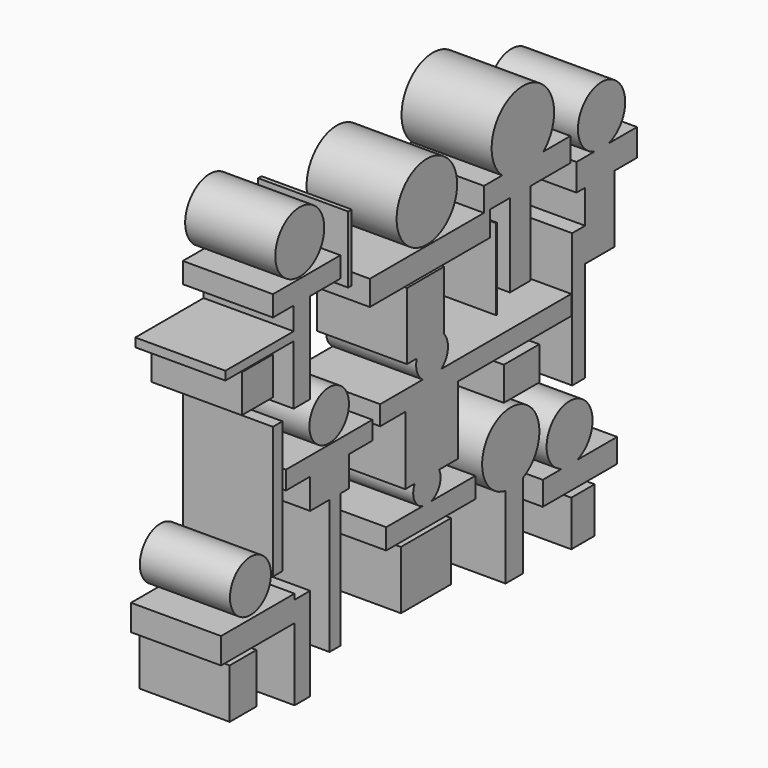
from build123d import *

# Parameters (mm, degrees)
F1_DEPTH = 25.4
F0_W     = 5.7912021875
F0_H     = 0.3047995269
F0_W_2   = 24.0791961551
F0_H_2   = 2.4383999407
F0_W_3   = 7.3152035475
F0_H_3   = 0.3048032522
F0_H_4   = 23.4696008265
F0_W_4   = 8.5344016552
F0_H_5   = 16.4591986686
F0_W_5   = 9.1440007091
F0_W_6   = 9.4488039613
F0_H_6   = 14.0208005905
F0_W_7   = 8.229598403
F0_H_7   = 12.8016006202
F0_W_8   = 10.9728015959
F0_H_8   = 10.6679983437
F0_W_9   = 3.8100006059
F0_H_9   = 37.7952032723
F0_W_10  = 12.4967992306
F0_H_10  = 9.4488007016
F0_R     = 10.6636456841
F0_R_2   = 8.6318203443
F0_R_3   = 6.9571912141
F0_R_4   = 7.2257527314
F0_W_11  = 1.2191999704
F0_H_11  = 18.897600472
F0_W_12  = 3.3528022468
F0_H_12  = 37.1856000274
F0_W_13  = 0.3047995269
F0_H_13  = 22.8600017726
F2_DEPTH = 25.4
F3_DEPTH = 25.4
F4_DEPTH = 25.4


with BuildPart() as f1:
    # F0 (on Right) → F1 (new body)
    with BuildSketch(Plane.YZ):
        Polygon((-46.6343984008, -30.0227999687), (-46.6343984008, -50.4443980753), (-41.1479994655, -50.4443980753), (-41.1479994655, -24.2315996438), (-46.6343984008, -24.2315996438), align=None)
        Polygon((-72.542399168, -30.0227999687), (-46.6343984008, -30.0227999687), (-46.6343984008, -24.2315996438), (-46.6343984008, -22.7076001465), (-72.542399168, -22.7076001465), align=None)
    extrude(amount=F1_DEPTH)


with BuildPart() as f1b:
    # F0 (on Right) → F1, piece 2 (new body)
    with BuildSketch(Plane.YZ):
        Polygon((-46.939201653, 48.9204004407), (-46.939201653, 49.2251999676), (-41.1479994655, 49.2251999676), (-41.1479994655, 48.9204004407), (-30.4799992591, 48.9204004407), (-30.4799992591, 54.7115989029), (-54.2544014752, 54.7115989029), (-54.2544014752, 48.9204004407), align=None)
        with Locations((-44.0436005592, 49.0728002042)):
            Rectangle(F0_W, F0_H)
        Polygon((-41.1479994655, 48.9204004407), (-46.939201653, 48.9204004407), (-46.939201653, 42.5195991993), (-46.939201653, 40.0811992586), (-46.939201653, 23.3171992004), (-41.1479994655, 23.3171992004), align=None)
        with Locations((-58.9787997305, 41.3003992289)):
            Rectangle(F0_W_2, F0_H_2)
    extrude(amount=F1_DEPTH)


with BuildPart() as f1c:
    # F0 (on Right) → F1, piece 3 (new body)
    with BuildSketch(Plane.YZ):
        with BuildLine():
            Line((29.2607992887, 44.6531996131), (29.2607992887, 44.9580028653))
            Line((29.2607992887, 44.9580028653), (36.5760028362, 44.9580028653))
            Line((36.5760028362, 44.9580028653), (36.5760028362, 44.6531996131))
            Line((36.5760028362, 44.6531996131), (50.5967997015, 44.6531996131))
            Line((50.5967997015, 44.6531996131), (50.5967997015, 51.3588003814))
            Line((50.5967997015, 51.3588003814), (41.1480031908, 51.3588003814))
            ThreePointArc((41.1480031908, 51.3588003814), (33.8328033686, 48.5775660133), (26.5176035464, 51.3588003814))
            Line((26.5176035464, 51.3588003814), (20.1167985797, 51.3588003814))
            Line((20.1167985797, 51.3588003814), (20.1167985797, 44.6531996131))
            Line((20.1167985797, 44.6531996131), (22.2503989935, 44.6531996131))
            Line((22.2503989935, 44.6531996131), (29.2607992887, 44.6531996131))
        make_face()
        with Locations((32.9184010625, 44.8056012392)):
            Rectangle(F0_W_3, F0_H_3)
        with Locations((32.9184010625, 32.9183991998)):
            Rectangle(F0_W_3, F0_H_4)
        Polygon((22.2503989935, 37.6427993178), (22.2503989935, 44.6531996131), (20.1167985797, 44.6531996131), (-20.116802305, 44.6531996131), (-20.116802305, 37.6427993178), align=None)
        with BuildLine():
            ThreePointArc((26.5176035464, 51.3588003814), (33.8328033686, 48.5775660133), (41.1480031908, 51.3588003814))
            Line((41.1480031908, 51.3588003814), (26.5176035464, 51.3588003814))
        make_face()
        with BuildLine():
            Line((26.5176035464, 51.3588003814), (41.1480031908, 51.3588003814))
            ThreePointArc((41.1480031908, 51.3588003814), (43.8773262602, 55.0777449303), (44.8436361397, 59.5883987844))
            ThreePointArc((44.8436361397, 59.5883987844), (29.3221495144, 69.6329216761), (26.5176035464, 51.3588003814))
        make_face()
    extrude(amount=F1_DEPTH)


with BuildPart() as f1d:
    # F0 (on Right) → F1, piece 4 (new body)
    with BuildSketch(Plane.YZ):
        with BuildLine():
            Line((27.7367997915, -27.4495670723), (27.7367997915, -26.6700014472))
            Line((27.7367997915, -26.6700014472), (33.832795918, -26.6700014472))
            ThreePointArc((33.832795918, -26.6700014472), (38.076787614, -22.9464635355), (39.6562758725, -17.5260007381))
            ThreePointArc((39.6562758725, -17.5260007381), (23.1092941085, -9.7711461484), (27.7367997915, -27.4495670723))
        make_face()
        with BuildLine():
            Line((33.832795918, -26.6700014472), (27.7367997915, -26.6700014472))
            Line((27.7367997915, -26.6700014472), (27.7367997915, -27.4495670723))
            ThreePointArc((27.7367997915, -27.4495670723), (30.8455899839, -27.5351625627), (33.832795918, -26.6700014472))
        make_face()
        with BuildLine():
            Line((33.832795918, -50.4443980753), (33.832795918, -26.6700014472))
            ThreePointArc((33.832795918, -26.6700014472), (30.8455899839, -27.5351625627), (27.7367997915, -27.4495670723))
            Line((27.7367997915, -27.4495670723), (27.7367997915, -50.4443980753))
            Line((27.7367997915, -50.4443980753), (33.832795918, -50.4443980753))
        make_face()
    extrude(amount=F1_DEPTH)


with BuildPart() as f1e:
    # F0 (on Right) → F1, piece 5 (new body)
    with BuildSketch(Plane.YZ):
        with BuildLine():
            Line((-16.4591986686, 6.5532000735), (-7.6199993491, 6.5532000735))
            Line((-7.6199993491, 6.5532000735), (10.9727997333, 6.5532000735))
            Line((10.9727997333, 6.5532000735), (50.9015992284, 6.5532000735))
            Line((50.9015992284, 6.5532000735), (50.9015992284, 12.0395999402))
            Line((50.9015992284, 12.0395999402), (5.0974173238, 12.0395999402))
            ThreePointArc((5.0974173238, 12.0395999402), (1.8288029823, 10.9913665847), (-1.4398113591, 12.0395999402))
            Line((-1.4398113591, 12.0395999402), (-16.4591986686, 12.0395999402))
            Line((-16.4591986686, 12.0395999402), (-16.4591986686, 6.5532000735))
        make_face()
        with BuildLine():
            Line((10.9727997333, 6.5532000735), (-7.6199993491, 6.5532000735))
            Line((-7.6199993491, 6.5532000735), (-7.6199993491, -12.6491999254))
            Line((-7.6199993491, -12.6491999254), (-4.3212876743, -12.6491999254))
            ThreePointArc((-4.3212876743, -12.6491999254), (0, -9.963487329), (4.3212876743, -12.6491999254))
            Line((4.3212876743, -12.6491999254), (10.9727997333, -12.6491999254))
            Line((10.9727997333, -12.6491999254), (10.9727997333, 6.5532000735))
        make_face()
        with BuildLine():
            ThreePointArc((4.3212876743, -12.6491999254), (0, -9.963487329), (-4.3212876743, -12.6491999254))
            Line((-4.3212876743, -12.6491999254), (4.3212876743, -12.6491999254))
        make_face()
        with BuildLine():
            Line((4.3212876743, -12.6491999254), (-4.3212876743, -12.6491999254))
            ThreePointArc((-4.3212876743, -12.6491999254), (-4.4478237942, -16.6382359716), (-1.5240075998, -19.3547997624))
            Line((-1.5240075998, -19.3547997624), (1.5240075998, -19.3547997624))
            ThreePointArc((1.5240075998, -19.3547997624), (3.9096321786, -17.6006992228), (4.8193130102, -14.7828003392))
            ThreePointArc((4.8193130102, -14.7828003392), (4.693155431, -13.6873232786), (4.3212876743, -12.6491999254))
        make_face()
        with BuildLine():
            ThreePointArc((1.5240075998, -19.3547997624), (0, -19.6021133493), (-1.5240075998, -19.3547997624))
            Line((-1.5240075998, -19.3547997624), (-14.3255991861, -19.3547997624))
            Line((-14.3255991861, -19.3547997624), (-14.3255991861, -25.1460019499))
            Line((-14.3255991861, -25.1460019499), (0, -25.1460019499))
            Line((0, -25.1460019499), (17.0687995851, -25.1460019499))
            Line((17.0687995851, -25.1460019499), (17.0687995851, -19.3547997624))
            Line((17.0687995851, -19.3547997624), (1.5240075998, -19.3547997624))
        make_face()
        with BuildLine():
            Line((1.5240075998, -19.3547997624), (-1.5240075998, -19.3547997624))
            ThreePointArc((-1.5240075998, -19.3547997624), (0, -19.6021133493), (1.5240075998, -19.3547997624))
        make_face()
        with BuildLine():
            ThreePointArc((-3.580859374, 18.1356016546), (-3.4738784937, 14.7491835534), (-1.4398113591, 12.0395999402))
            Line((-1.4398113591, 12.0395999402), (5.0974173238, 12.0395999402))
            ThreePointArc((5.0974173238, 12.0395999402), (6.8266727016, 14.0409339951), (7.4490366923, 16.6116002947))
            ThreePointArc((7.4490366923, 16.6116002947), (7.099935865, 18.5615195464), (6.0960021801, 20.2692003222))
            Line((6.0960021801, 20.2692003222), (6.0960021801, 18.1356016546))
            Line((6.0960021801, 18.1356016546), (-3.580859374, 18.1356016546))
        make_face()
        with BuildLine():
            Line((5.0974173238, 12.0395999402), (-1.4398113591, 12.0395999402))
            ThreePointArc((-1.4398113591, 12.0395999402), (1.8288029823, 10.9913665847), (5.0974173238, 12.0395999402))
        make_face()
        with BuildLine():
            ThreePointArc((6.0960021801, 20.2692003222), (0.6186929313, 22.1000117788), (-3.580859374, 18.1356016546))
            Line((-3.580859374, 18.1356016546), (6.0960021801, 18.1356016546))
            Line((6.0960021801, 18.1356016546), (6.0960021801, 20.2692003222))
        make_face()
        with BuildLine():
            Line((-7.0104012266, 18.1356016546), (-3.580859374, 18.1356016546))
            ThreePointArc((-3.580859374, 18.1356016546), (0.6186929313, 22.1000117788), (6.0960021801, 20.2692003222))
            Line((6.0960021801, 20.2692003222), (6.0960021801, 37.033200264))
            Line((6.0960021801, 37.033200264), (-7.0104012266, 37.033200264))
            Line((-7.0104012266, 37.033200264), (-7.0104012266, 18.1356016546))
        make_face()
    extrude(amount=F1_DEPTH)


with BuildPart() as f1f:
    # F0 (on Right) → F1, piece 6 (new body)
    with BuildSketch(Plane.YZ):
        with Locations((4.2672008276, -34.5947993919)):
            Rectangle(F0_W_4, F0_H_5)
        with Locations((-4.5720003545, -34.5947993919)):
            Rectangle(F0_W_5, F0_H_5)
    extrude(amount=F1_DEPTH)


with BuildPart() as f1g:
    # F0 (on Right) → F1, piece 7 (new body)
    with BuildSketch(Plane.YZ):
        with Locations((-64.7700019181, -38.252402097)):
            Rectangle(F0_W_6, F0_H_6)
    extrude(amount=F1_DEPTH)


with BuildPart() as f1h:
    # F0 (on Right) → F1, piece 8 (new body)
    with BuildSketch(Plane.YZ):
        with Locations((55.0163984299, -44.9580000713)):
            Rectangle(F0_W_7, F0_H_7)
    extrude(amount=F1_DEPTH)


with BuildPart() as f1i:
    # F0 (on Right) → F1, piece 9 (new body)
    with BuildSketch(Plane.YZ):
        with BuildLine():
            Line((52.73039639, 36.4236012101), (55.7783991098, 36.4236012101))
            Line((55.7783991098, 36.4236012101), (66.1416053772, 36.4236012101))
            Line((66.1416053772, 36.4236012101), (74.0664079785, 36.4236012101))
            Line((74.0664079785, 36.4236012101), (74.0664079785, 44.0436005592))
            Line((74.0664079785, 44.0436005592), (64.1197777371, 44.0436005592))
            ThreePointArc((64.1197777371, 44.0436005592), (61.5695938468, 43.6433844143), (59.0194099565, 44.0436005592))
            Line((59.0194099565, 44.0436005592), (52.73039639, 44.0436005592))
            Line((52.73039639, 44.0436005592), (52.73039639, 36.4236012101))
        make_face()
        Polygon((66.1416053772, 36.4236012101), (55.7783991098, 36.4236012101), (55.7783991098, 26.9748009741), (55.7783991098, 17.5260007381), (66.1416053772, 17.5260007381), align=None)
        Polygon((55.7783991098, 17.5260007381), (55.7783991098, 26.9748009741), (51.2063987553, 26.9748009741), (51.2063987553, -10.8203999698), (55.7783991098, -10.8203999698), align=None)
        with BuildLine():
            ThreePointArc((69.8946088678, 51.9683994353), (56.6667601811, 58.6965564747), (59.0194099565, 44.0436005592))
            Line((59.0194099565, 44.0436005592), (64.1197777371, 44.0436005592))
            ThreePointArc((64.1197777371, 44.0436005592), (68.2977508862, 47.0655657696), (69.8946088678, 51.9683994353))
        make_face()
        with BuildLine():
            Line((64.1197777371, 44.0436005592), (59.0194099565, 44.0436005592))
            ThreePointArc((59.0194099565, 44.0436005592), (61.5695938468, 43.6433844143), (64.1197777371, 44.0436005592))
        make_face()
    extrude(amount=F1_DEPTH)


with BuildPart() as f1j:
    # F0 (on Right) → F1, piece 10 (new body)
    with BuildSketch(Plane.YZ):
        with Locations((-59.7408022732, 34.4424005598)):
            Rectangle(F0_W_8, F0_H_8)
    extrude(amount=F1_DEPTH)


with BuildPart() as f1k:
    # F0 (on Right) → F1, piece 11 (new body)
    with BuildSketch(Plane.YZ):
        Polygon((-49.6824011207, 4.1148001328), (-41.1479994655, 4.1148001328), (-27.4320002645, 4.1148001328), (-19.2024018615, 4.1148001328), (-19.2024018615, 9.2964004725), (-49.6824011207, 9.2964004725), align=None)
        Polygon((-27.4320002645, 4.1148001328), (-41.1479994655, 4.1148001328), (-41.1479994655, -4.4196001254), (-34.289999865, -4.4196001254), (-30.4799992591, -4.4196001254), (-27.4320002645, -4.4196001254), align=None)
        with Locations((-32.3849995621, -23.3172017615)):
            Rectangle(F0_W_9, F0_H_9)
    extrude(amount=F1_DEPTH)


with BuildPart() as f1l:
    # F0 (on Right) → F1, piece 12 (new body)
    with BuildSketch(Plane.YZ):
        with Locations((33.3756022155, -0.609600218)):
            Rectangle(F0_W_10, F0_H_10)
    extrude(amount=F1_DEPTH)


with BuildPart() as f1m:
    # F0 (on Right) → F1, piece 13 (new body)
    with BuildSketch(Plane.YZ):
        with BuildLine():
            Line((47.5487951189, -30.0227999687), (40.8431999385, -30.0227999687))
            Line((40.8431999385, -30.0227999687), (40.8431999385, -36.728400737))
            Line((40.8431999385, -36.728400737), (67.0560076833, -36.728400737))
            Line((67.0560076833, -36.728400737), (67.0560076833, -30.0227999687))
            Line((67.0560076833, -30.0227999687), (53.0351977795, -30.0227999687))
            ThreePointArc((53.0351977795, -30.0227999687), (50.2919964492, -30.5015377816), (47.5487951189, -30.0227999687))
        make_face()
        with BuildLine():
            ThreePointArc((58.3907336112, -22.4028006196), (45.6351156765, -15.7768663392), (47.5487951189, -30.0227999687))
            Line((47.5487951189, -30.0227999687), (53.0351977795, -30.0227999687))
            ThreePointArc((53.0351977795, -30.0227999687), (56.9179307296, -27.0596813923), (58.3907336112, -22.4028006196))
        make_face()
        with BuildLine():
            Line((53.0351977795, -30.0227999687), (47.5487951189, -30.0227999687))
            ThreePointArc((47.5487951189, -30.0227999687), (50.2919964492, -30.5015377816), (53.0351977795, -30.0227999687))
        make_face()
    extrude(amount=F1_DEPTH)


with BuildPart() as f1n:
    # F0 (on Right) → F1, piece 14 (new body)
    with BuildSketch(Plane.YZ):
        with Locations((0, 55.626001209)):
            Circle(F0_R)
    extrude(amount=F1_DEPTH)


with BuildPart() as f1o:
    # F0 (on Right) → F1, piece 15 (new body)
    with BuildSketch(Plane.YZ):
        with Locations((-44.8056012392, 63.8556033373)):
            Circle(F0_R_2)
    extrude(amount=F1_DEPTH)


with BuildPart() as f1p:
    # F0 (on Right) → F1, piece 16 (new body)
    with BuildSketch(Plane.YZ):
        with Locations((-34.4424024224, 16.6116002947)):
            Circle(F0_R_3)
    extrude(amount=F1_DEPTH)


with BuildPart() as f1q:
    # F0 (on Right) → F1, piece 17 (new body)
    with BuildSketch(Plane.YZ):
        with Locations((-62.1792003512, -14.4780008122)):
            Circle(F0_R_4)
    extrude(amount=F1_DEPTH)


with BuildPart() as f1r:
    # F0 (on Right) → F1, piece 18 (new body)
    with BuildSketch(Plane.YZ):
        with Locations((-27.1271998063, 55.0164021552)):
            Rectangle(F0_W_11, F0_H_11)
    extrude(amount=F1_DEPTH)


with BuildPart() as f1s:
    # F0 (on Right) → F1, piece 19 (new body)
    with BuildSketch(Plane.YZ):
        with Locations((-52.5780003518, 3.2003996894)):
            Rectangle(F0_W_12, F0_H_12)
    extrude(amount=F1_DEPTH)


with BuildPart() as f1t:
    # F0 (on Right) → F1, piece 20 (new body)
    with BuildSketch(Plane.YZ):
        with Locations((24.5363973081, 28.9560016245)):
            Rectangle(F0_W_13, F0_H_13)
    extrude(amount=F1_DEPTH)


with BuildPart() as f2:
    # F0 (on Right) → F2 (new body)
    with BuildSketch(Plane.YZ):
        Polygon((-46.6343984008, -30.0227999687), (-46.6343984008, -50.4443980753), (-41.1479994655, -50.4443980753), (-41.1479994655, -24.2315996438), (-46.6343984008, -24.2315996438), align=None)
        Polygon((-72.542399168, -30.0227999687), (-46.6343984008, -30.0227999687), (-46.6343984008, -24.2315996438), (-46.6343984008, -22.7076001465), (-72.542399168, -22.7076001465), align=None)
    extrude(amount=F2_DEPTH)


with BuildPart() as f2b:
    # F0 (on Right) → F2, piece 2 (new body)
    with BuildSketch(Plane.YZ):
        Polygon((-46.939201653, 48.9204004407), (-46.939201653, 49.2251999676), (-41.1479994655, 49.2251999676), (-41.1479994655, 48.9204004407), (-30.4799992591, 48.9204004407), (-30.4799992591, 54.7115989029), (-54.2544014752, 54.7115989029), (-54.2544014752, 48.9204004407), align=None)
        with Locations((-44.0436005592, 49.0728002042)):
            Rectangle(F0_W, F0_H)
        Polygon((-41.1479994655, 48.9204004407), (-46.939201653, 48.9204004407), (-46.939201653, 42.5195991993), (-46.939201653, 40.0811992586), (-46.939201653, 23.3171992004), (-41.1479994655, 23.3171992004), align=None)
        with Locations((-58.9787997305, 41.3003992289)):
            Rectangle(F0_W_2, F0_H_2)
    extrude(amount=F2_DEPTH)


with BuildPart() as f2c:
    # F0 (on Right) → F2, piece 3 (new body)
    with BuildSketch(Plane.YZ):
        with BuildLine():
            Line((29.2607992887, 44.6531996131), (29.2607992887, 44.9580028653))
            Line((29.2607992887, 44.9580028653), (36.5760028362, 44.9580028653))
            Line((36.5760028362, 44.9580028653), (36.5760028362, 44.6531996131))
            Line((36.5760028362, 44.6531996131), (50.5967997015, 44.6531996131))
            Line((50.5967997015, 44.6531996131), (50.5967997015, 51.3588003814))
            Line((50.5967997015, 51.3588003814), (41.1480031908, 51.3588003814))
            ThreePointArc((41.1480031908, 51.3588003814), (33.8328033686, 48.5775660133), (26.5176035464, 51.3588003814))
            Line((26.5176035464, 51.3588003814), (20.1167985797, 51.3588003814))
            Line((20.1167985797, 51.3588003814), (20.1167985797, 44.6531996131))
            Line((20.1167985797, 44.6531996131), (22.2503989935, 44.6531996131))
            Line((22.2503989935, 44.6531996131), (29.2607992887, 44.6531996131))
        make_face()
        with Locations((32.9184010625, 44.8056012392)):
            Rectangle(F0_W_3, F0_H_3)
        with Locations((32.9184010625, 32.9183991998)):
            Rectangle(F0_W_3, F0_H_4)
        Polygon((22.2503989935, 37.6427993178), (22.2503989935, 44.6531996131), (20.1167985797, 44.6531996131), (-20.116802305, 44.6531996131), (-20.116802305, 37.6427993178), align=None)
        with BuildLine():
            ThreePointArc((26.5176035464, 51.3588003814), (33.8328033686, 48.5775660133), (41.1480031908, 51.3588003814))
            Line((41.1480031908, 51.3588003814), (26.5176035464, 51.3588003814))
        make_face()
        with BuildLine():
            Line((26.5176035464, 51.3588003814), (41.1480031908, 51.3588003814))
            ThreePointArc((41.1480031908, 51.3588003814), (43.8773262602, 55.0777449303), (44.8436361397, 59.5883987844))
            ThreePointArc((44.8436361397, 59.5883987844), (29.3221495144, 69.6329216761), (26.5176035464, 51.3588003814))
        make_face()
    extrude(amount=F2_DEPTH)


with BuildPart() as f2d:
    # F0 (on Right) → F2, piece 4 (new body)
    with BuildSketch(Plane.YZ):
        with BuildLine():
            Line((27.7367997915, -27.4495670723), (27.7367997915, -26.6700014472))
            Line((27.7367997915, -26.6700014472), (33.832795918, -26.6700014472))
            ThreePointArc((33.832795918, -26.6700014472), (38.076787614, -22.9464635355), (39.6562758725, -17.5260007381))
            ThreePointArc((39.6562758725, -17.5260007381), (23.1092941085, -9.7711461484), (27.7367997915, -27.4495670723))
        make_face()
        with BuildLine():
            Line((33.832795918, -26.6700014472), (27.7367997915, -26.6700014472))
            Line((27.7367997915, -26.6700014472), (27.7367997915, -27.4495670723))
            ThreePointArc((27.7367997915, -27.4495670723), (30.8455899839, -27.5351625627), (33.832795918, -26.6700014472))
        make_face()
        with BuildLine():
            Line((33.832795918, -50.4443980753), (33.832795918, -26.6700014472))
            ThreePointArc((33.832795918, -26.6700014472), (30.8455899839, -27.5351625627), (27.7367997915, -27.4495670723))
            Line((27.7367997915, -27.4495670723), (27.7367997915, -50.4443980753))
            Line((27.7367997915, -50.4443980753), (33.832795918, -50.4443980753))
        make_face()
    extrude(amount=F2_DEPTH)


with BuildPart() as f2e:
    # F0 (on Right) → F2, piece 5 (new body)
    with BuildSketch(Plane.YZ):
        with BuildLine():
            Line((-16.4591986686, 6.5532000735), (-7.6199993491, 6.5532000735))
            Line((-7.6199993491, 6.5532000735), (10.9727997333, 6.5532000735))
            Line((10.9727997333, 6.5532000735), (50.9015992284, 6.5532000735))
            Line((50.9015992284, 6.5532000735), (50.9015992284, 12.0395999402))
            Line((50.9015992284, 12.0395999402), (5.0974173238, 12.0395999402))
            ThreePointArc((5.0974173238, 12.0395999402), (1.8288029823, 10.9913665847), (-1.4398113591, 12.0395999402))
            Line((-1.4398113591, 12.0395999402), (-16.4591986686, 12.0395999402))
            Line((-16.4591986686, 12.0395999402), (-16.4591986686, 6.5532000735))
        make_face()
        with BuildLine():
            Line((10.9727997333, 6.5532000735), (-7.6199993491, 6.5532000735))
            Line((-7.6199993491, 6.5532000735), (-7.6199993491, -12.6491999254))
            Line((-7.6199993491, -12.6491999254), (-4.3212876743, -12.6491999254))
            ThreePointArc((-4.3212876743, -12.6491999254), (0, -9.963487329), (4.3212876743, -12.6491999254))
            Line((4.3212876743, -12.6491999254), (10.9727997333, -12.6491999254))
            Line((10.9727997333, -12.6491999254), (10.9727997333, 6.5532000735))
        make_face()
        with BuildLine():
            ThreePointArc((4.3212876743, -12.6491999254), (0, -9.963487329), (-4.3212876743, -12.6491999254))
            Line((-4.3212876743, -12.6491999254), (4.3212876743, -12.6491999254))
        make_face()
        with BuildLine():
            Line((4.3212876743, -12.6491999254), (-4.3212876743, -12.6491999254))
            ThreePointArc((-4.3212876743, -12.6491999254), (-4.4478237942, -16.6382359716), (-1.5240075998, -19.3547997624))
            Line((-1.5240075998, -19.3547997624), (1.5240075998, -19.3547997624))
            ThreePointArc((1.5240075998, -19.3547997624), (3.9096321786, -17.6006992228), (4.8193130102, -14.7828003392))
            ThreePointArc((4.8193130102, -14.7828003392), (4.693155431, -13.6873232786), (4.3212876743, -12.6491999254))
        make_face()
        with BuildLine():
            ThreePointArc((1.5240075998, -19.3547997624), (0, -19.6021133493), (-1.5240075998, -19.3547997624))
            Line((-1.5240075998, -19.3547997624), (-14.3255991861, -19.3547997624))
            Line((-14.3255991861, -19.3547997624), (-14.3255991861, -25.1460019499))
            Line((-14.3255991861, -25.1460019499), (0, -25.1460019499))
            Line((0, -25.1460019499), (17.0687995851, -25.1460019499))
            Line((17.0687995851, -25.1460019499), (17.0687995851, -19.3547997624))
            Line((17.0687995851, -19.3547997624), (1.5240075998, -19.3547997624))
        make_face()
        with BuildLine():
            Line((1.5240075998, -19.3547997624), (-1.5240075998, -19.3547997624))
            ThreePointArc((-1.5240075998, -19.3547997624), (0, -19.6021133493), (1.5240075998, -19.3547997624))
        make_face()
        with BuildLine():
            ThreePointArc((-3.580859374, 18.1356016546), (-3.4738784937, 14.7491835534), (-1.4398113591, 12.0395999402))
            Line((-1.4398113591, 12.0395999402), (5.0974173238, 12.0395999402))
            ThreePointArc((5.0974173238, 12.0395999402), (6.8266727016, 14.0409339951), (7.4490366923, 16.6116002947))
            ThreePointArc((7.4490366923, 16.6116002947), (7.099935865, 18.5615195464), (6.0960021801, 20.2692003222))
            Line((6.0960021801, 20.2692003222), (6.0960021801, 18.1356016546))
            Line((6.0960021801, 18.1356016546), (-3.580859374, 18.1356016546))
        make_face()
        with BuildLine():
            Line((5.0974173238, 12.0395999402), (-1.4398113591, 12.0395999402))
            ThreePointArc((-1.4398113591, 12.0395999402), (1.8288029823, 10.9913665847), (5.0974173238, 12.0395999402))
        make_face()
        with BuildLine():
            ThreePointArc((6.0960021801, 20.2692003222), (0.6186929313, 22.1000117788), (-3.580859374, 18.1356016546))
            Line((-3.580859374, 18.1356016546), (6.0960021801, 18.1356016546))
            Line((6.0960021801, 18.1356016546), (6.0960021801, 20.2692003222))
        make_face()
        with BuildLine():
            Line((-7.0104012266, 18.1356016546), (-3.580859374, 18.1356016546))
            ThreePointArc((-3.580859374, 18.1356016546), (0.6186929313, 22.1000117788), (6.0960021801, 20.2692003222))
            Line((6.0960021801, 20.2692003222), (6.0960021801, 37.033200264))
            Line((6.0960021801, 37.033200264), (-7.0104012266, 37.033200264))
            Line((-7.0104012266, 37.033200264), (-7.0104012266, 18.1356016546))
        make_face()
    extrude(amount=F2_DEPTH)


with BuildPart() as f2f:
    # F0 (on Right) → F2, piece 6 (new body)
    with BuildSketch(Plane.YZ):
        with Locations((4.2672008276, -34.5947993919)):
            Rectangle(F0_W_4, F0_H_5)
        with Locations((-4.5720003545, -34.5947993919)):
            Rectangle(F0_W_5, F0_H_5)
    extrude(amount=F2_DEPTH)


with BuildPart() as f2g:
    # F0 (on Right) → F2, piece 7 (new body)
    with BuildSketch(Plane.YZ):
        with Locations((-64.7700019181, -38.252402097)):
            Rectangle(F0_W_6, F0_H_6)
    extrude(amount=F2_DEPTH)


with BuildPart() as f2h:
    # F0 (on Right) → F2, piece 8 (new body)
    with BuildSketch(Plane.YZ):
        with Locations((55.0163984299, -44.9580000713)):
            Rectangle(F0_W_7, F0_H_7)
    extrude(amount=F2_DEPTH)


with BuildPart() as f2i:
    # F0 (on Right) → F2, piece 9 (new body)
    with BuildSketch(Plane.YZ):
        with BuildLine():
            Line((52.73039639, 36.4236012101), (55.7783991098, 36.4236012101))
            Line((55.7783991098, 36.4236012101), (66.1416053772, 36.4236012101))
            Line((66.1416053772, 36.4236012101), (74.0664079785, 36.4236012101))
            Line((74.0664079785, 36.4236012101), (74.0664079785, 44.0436005592))
            Line((74.0664079785, 44.0436005592), (64.1197777371, 44.0436005592))
            ThreePointArc((64.1197777371, 44.0436005592), (61.5695938468, 43.6433844143), (59.0194099565, 44.0436005592))
            Line((59.0194099565, 44.0436005592), (52.73039639, 44.0436005592))
            Line((52.73039639, 44.0436005592), (52.73039639, 36.4236012101))
        make_face()
        Polygon((66.1416053772, 36.4236012101), (55.7783991098, 36.4236012101), (55.7783991098, 26.9748009741), (55.7783991098, 17.5260007381), (66.1416053772, 17.5260007381), align=None)
        Polygon((55.7783991098, 17.5260007381), (55.7783991098, 26.9748009741), (51.2063987553, 26.9748009741), (51.2063987553, -10.8203999698), (55.7783991098, -10.8203999698), align=None)
        with BuildLine():
            ThreePointArc((69.8946088678, 51.9683994353), (56.6667601811, 58.6965564747), (59.0194099565, 44.0436005592))
            Line((59.0194099565, 44.0436005592), (64.1197777371, 44.0436005592))
            ThreePointArc((64.1197777371, 44.0436005592), (68.2977508862, 47.0655657696), (69.8946088678, 51.9683994353))
        make_face()
        with BuildLine():
            Line((64.1197777371, 44.0436005592), (59.0194099565, 44.0436005592))
            ThreePointArc((59.0194099565, 44.0436005592), (61.5695938468, 43.6433844143), (64.1197777371, 44.0436005592))
        make_face()
    extrude(amount=F2_DEPTH)


with BuildPart() as f2j:
    # F0 (on Right) → F2, piece 10 (new body)
    with BuildSketch(Plane.YZ):
        with Locations((-59.7408022732, 34.4424005598)):
            Rectangle(F0_W_8, F0_H_8)
    extrude(amount=F2_DEPTH)


with BuildPart() as f2k:
    # F0 (on Right) → F2, piece 11 (new body)
    with BuildSketch(Plane.YZ):
        Polygon((-49.6824011207, 4.1148001328), (-41.1479994655, 4.1148001328), (-27.4320002645, 4.1148001328), (-19.2024018615, 4.1148001328), (-19.2024018615, 9.2964004725), (-49.6824011207, 9.2964004725), align=None)
        Polygon((-27.4320002645, 4.1148001328), (-41.1479994655, 4.1148001328), (-41.1479994655, -4.4196001254), (-34.289999865, -4.4196001254), (-30.4799992591, -4.4196001254), (-27.4320002645, -4.4196001254), align=None)
        with Locations((-32.3849995621, -23.3172017615)):
            Rectangle(F0_W_9, F0_H_9)
    extrude(amount=F2_DEPTH)


with BuildPart() as f2l:
    # F0 (on Right) → F2, piece 12 (new body)
    with BuildSketch(Plane.YZ):
        with Locations((33.3756022155, -0.609600218)):
            Rectangle(F0_W_10, F0_H_10)
    extrude(amount=F2_DEPTH)


with BuildPart() as f2m:
    # F0 (on Right) → F2, piece 13 (new body)
    with BuildSketch(Plane.YZ):
        with BuildLine():
            Line((47.5487951189, -30.0227999687), (40.8431999385, -30.0227999687))
            Line((40.8431999385, -30.0227999687), (40.8431999385, -36.728400737))
            Line((40.8431999385, -36.728400737), (67.0560076833, -36.728400737))
            Line((67.0560076833, -36.728400737), (67.0560076833, -30.0227999687))
            Line((67.0560076833, -30.0227999687), (53.0351977795, -30.0227999687))
            ThreePointArc((53.0351977795, -30.0227999687), (50.2919964492, -30.5015377816), (47.5487951189, -30.0227999687))
        make_face()
        with BuildLine():
            ThreePointArc((58.3907336112, -22.4028006196), (45.6351156765, -15.7768663392), (47.5487951189, -30.0227999687))
            Line((47.5487951189, -30.0227999687), (53.0351977795, -30.0227999687))
            ThreePointArc((53.0351977795, -30.0227999687), (56.9179307296, -27.0596813923), (58.3907336112, -22.4028006196))
        make_face()
        with BuildLine():
            Line((53.0351977795, -30.0227999687), (47.5487951189, -30.0227999687))
            ThreePointArc((47.5487951189, -30.0227999687), (50.2919964492, -30.5015377816), (53.0351977795, -30.0227999687))
        make_face()
    extrude(amount=F2_DEPTH)


with BuildPart() as f2n:
    # F0 (on Right) → F2, piece 14 (new body)
    with BuildSketch(Plane.YZ):
        with Locations((0, 55.626001209)):
            Circle(F0_R)
    extrude(amount=F2_DEPTH)


with BuildPart() as f2o:
    # F0 (on Right) → F2, piece 15 (new body)
    with BuildSketch(Plane.YZ):
        with Locations((-44.8056012392, 63.8556033373)):
            Circle(F0_R_2)
    extrude(amount=F2_DEPTH)


with BuildPart() as f2p:
    # F0 (on Right) → F2, piece 16 (new body)
    with BuildSketch(Plane.YZ):
        with Locations((-34.4424024224, 16.6116002947)):
            Circle(F0_R_3)
    extrude(amount=F2_DEPTH)


with BuildPart() as f2q:
    # F0 (on Right) → F2, piece 17 (new body)
    with BuildSketch(Plane.YZ):
        with Locations((-62.1792003512, -14.4780008122)):
            Circle(F0_R_4)
    extrude(amount=F2_DEPTH)


with BuildPart() as f2r:
    # F0 (on Right) → F2, piece 18 (new body)
    with BuildSketch(Plane.YZ):
        with Locations((-27.1271998063, 55.0164021552)):
            Rectangle(F0_W_11, F0_H_11)
    extrude(amount=F2_DEPTH)


with BuildPart() as f2s:
    # F0 (on Right) → F2, piece 19 (new body)
    with BuildSketch(Plane.YZ):
        with Locations((-52.5780003518, 3.2003996894)):
            Rectangle(F0_W_12, F0_H_12)
    extrude(amount=F2_DEPTH)


with BuildPart() as f2t:
    # F0 (on Right) → F2, piece 20 (new body)
    with BuildSketch(Plane.YZ):
        with Locations((24.5363973081, 28.9560016245)):
            Rectangle(F0_W_13, F0_H_13)
    extrude(amount=F2_DEPTH)


with BuildPart() as f3:
    # F0 (on Right) → F3 (new body)
    with BuildSketch(Plane.YZ):
        Polygon((-46.6343984008, -30.0227999687), (-46.6343984008, -50.4443980753), (-41.1479994655, -50.4443980753), (-41.1479994655, -24.2315996438), (-46.6343984008, -24.2315996438), align=None)
        Polygon((-72.542399168, -30.0227999687), (-46.6343984008, -30.0227999687), (-46.6343984008, -24.2315996438), (-46.6343984008, -22.7076001465), (-72.542399168, -22.7076001465), align=None)
    extrude(amount=F3_DEPTH)


with BuildPart() as f3b:
    # F0 (on Right) → F3, piece 2 (new body)
    with BuildSketch(Plane.YZ):
        Polygon((-46.939201653, 48.9204004407), (-46.939201653, 49.2251999676), (-41.1479994655, 49.2251999676), (-41.1479994655, 48.9204004407), (-30.4799992591, 48.9204004407), (-30.4799992591, 54.7115989029), (-54.2544014752, 54.7115989029), (-54.2544014752, 48.9204004407), align=None)
        with Locations((-44.0436005592, 49.0728002042)):
            Rectangle(F0_W, F0_H)
        Polygon((-41.1479994655, 48.9204004407), (-46.939201653, 48.9204004407), (-46.939201653, 42.5195991993), (-46.939201653, 40.0811992586), (-46.939201653, 23.3171992004), (-41.1479994655, 23.3171992004), align=None)
        with Locations((-58.9787997305, 41.3003992289)):
            Rectangle(F0_W_2, F0_H_2)
    extrude(amount=F3_DEPTH)


with BuildPart() as f3c:
    # F0 (on Right) → F3, piece 3 (new body)
    with BuildSketch(Plane.YZ):
        with BuildLine():
            Line((29.2607992887, 44.6531996131), (29.2607992887, 44.9580028653))
            Line((29.2607992887, 44.9580028653), (36.5760028362, 44.9580028653))
            Line((36.5760028362, 44.9580028653), (36.5760028362, 44.6531996131))
            Line((36.5760028362, 44.6531996131), (50.5967997015, 44.6531996131))
            Line((50.5967997015, 44.6531996131), (50.5967997015, 51.3588003814))
            Line((50.5967997015, 51.3588003814), (41.1480031908, 51.3588003814))
            ThreePointArc((41.1480031908, 51.3588003814), (33.8328033686, 48.5775660133), (26.5176035464, 51.3588003814))
            Line((26.5176035464, 51.3588003814), (20.1167985797, 51.3588003814))
            Line((20.1167985797, 51.3588003814), (20.1167985797, 44.6531996131))
            Line((20.1167985797, 44.6531996131), (22.2503989935, 44.6531996131))
            Line((22.2503989935, 44.6531996131), (29.2607992887, 44.6531996131))
        make_face()
        with Locations((32.9184010625, 44.8056012392)):
            Rectangle(F0_W_3, F0_H_3)
        with Locations((32.9184010625, 32.9183991998)):
            Rectangle(F0_W_3, F0_H_4)
        Polygon((22.2503989935, 37.6427993178), (22.2503989935, 44.6531996131), (20.1167985797, 44.6531996131), (-20.116802305, 44.6531996131), (-20.116802305, 37.6427993178), align=None)
        with BuildLine():
            ThreePointArc((26.5176035464, 51.3588003814), (33.8328033686, 48.5775660133), (41.1480031908, 51.3588003814))
            Line((41.1480031908, 51.3588003814), (26.5176035464, 51.3588003814))
        make_face()
        with BuildLine():
            Line((26.5176035464, 51.3588003814), (41.1480031908, 51.3588003814))
            ThreePointArc((41.1480031908, 51.3588003814), (43.8773262602, 55.0777449303), (44.8436361397, 59.5883987844))
            ThreePointArc((44.8436361397, 59.5883987844), (29.3221495144, 69.6329216761), (26.5176035464, 51.3588003814))
        make_face()
    extrude(amount=F3_DEPTH)


with BuildPart() as f3d:
    # F0 (on Right) → F3, piece 4 (new body)
    with BuildSketch(Plane.YZ):
        with BuildLine():
            Line((27.7367997915, -27.4495670723), (27.7367997915, -26.6700014472))
            Line((27.7367997915, -26.6700014472), (33.832795918, -26.6700014472))
            ThreePointArc((33.832795918, -26.6700014472), (38.076787614, -22.9464635355), (39.6562758725, -17.5260007381))
            ThreePointArc((39.6562758725, -17.5260007381), (23.1092941085, -9.7711461484), (27.7367997915, -27.4495670723))
        make_face()
        with BuildLine():
            Line((33.832795918, -26.6700014472), (27.7367997915, -26.6700014472))
            Line((27.7367997915, -26.6700014472), (27.7367997915, -27.4495670723))
            ThreePointArc((27.7367997915, -27.4495670723), (30.8455899839, -27.5351625627), (33.832795918, -26.6700014472))
        make_face()
        with BuildLine():
            Line((33.832795918, -50.4443980753), (33.832795918, -26.6700014472))
            ThreePointArc((33.832795918, -26.6700014472), (30.8455899839, -27.5351625627), (27.7367997915, -27.4495670723))
            Line((27.7367997915, -27.4495670723), (27.7367997915, -50.4443980753))
            Line((27.7367997915, -50.4443980753), (33.832795918, -50.4443980753))
        make_face()
    extrude(amount=F3_DEPTH)


with BuildPart() as f3e:
    # F0 (on Right) → F3, piece 5 (new body)
    with BuildSketch(Plane.YZ):
        with BuildLine():
            Line((-16.4591986686, 6.5532000735), (-7.6199993491, 6.5532000735))
            Line((-7.6199993491, 6.5532000735), (10.9727997333, 6.5532000735))
            Line((10.9727997333, 6.5532000735), (50.9015992284, 6.5532000735))
            Line((50.9015992284, 6.5532000735), (50.9015992284, 12.0395999402))
            Line((50.9015992284, 12.0395999402), (5.0974173238, 12.0395999402))
            ThreePointArc((5.0974173238, 12.0395999402), (1.8288029823, 10.9913665847), (-1.4398113591, 12.0395999402))
            Line((-1.4398113591, 12.0395999402), (-16.4591986686, 12.0395999402))
            Line((-16.4591986686, 12.0395999402), (-16.4591986686, 6.5532000735))
        make_face()
        with BuildLine():
            Line((10.9727997333, 6.5532000735), (-7.6199993491, 6.5532000735))
            Line((-7.6199993491, 6.5532000735), (-7.6199993491, -12.6491999254))
            Line((-7.6199993491, -12.6491999254), (-4.3212876743, -12.6491999254))
            ThreePointArc((-4.3212876743, -12.6491999254), (0, -9.963487329), (4.3212876743, -12.6491999254))
            Line((4.3212876743, -12.6491999254), (10.9727997333, -12.6491999254))
            Line((10.9727997333, -12.6491999254), (10.9727997333, 6.5532000735))
        make_face()
        with BuildLine():
            ThreePointArc((4.3212876743, -12.6491999254), (0, -9.963487329), (-4.3212876743, -12.6491999254))
            Line((-4.3212876743, -12.6491999254), (4.3212876743, -12.6491999254))
        make_face()
        with BuildLine():
            Line((4.3212876743, -12.6491999254), (-4.3212876743, -12.6491999254))
            ThreePointArc((-4.3212876743, -12.6491999254), (-4.4478237942, -16.6382359716), (-1.5240075998, -19.3547997624))
            Line((-1.5240075998, -19.3547997624), (1.5240075998, -19.3547997624))
            ThreePointArc((1.5240075998, -19.3547997624), (3.9096321786, -17.6006992228), (4.8193130102, -14.7828003392))
            ThreePointArc((4.8193130102, -14.7828003392), (4.693155431, -13.6873232786), (4.3212876743, -12.6491999254))
        make_face()
        with BuildLine():
            ThreePointArc((1.5240075998, -19.3547997624), (0, -19.6021133493), (-1.5240075998, -19.3547997624))
            Line((-1.5240075998, -19.3547997624), (-14.3255991861, -19.3547997624))
            Line((-14.3255991861, -19.3547997624), (-14.3255991861, -25.1460019499))
            Line((-14.3255991861, -25.1460019499), (0, -25.1460019499))
            Line((0, -25.1460019499), (17.0687995851, -25.1460019499))
            Line((17.0687995851, -25.1460019499), (17.0687995851, -19.3547997624))
            Line((17.0687995851, -19.3547997624), (1.5240075998, -19.3547997624))
        make_face()
        with BuildLine():
            Line((1.5240075998, -19.3547997624), (-1.5240075998, -19.3547997624))
            ThreePointArc((-1.5240075998, -19.3547997624), (0, -19.6021133493), (1.5240075998, -19.3547997624))
        make_face()
        with BuildLine():
            ThreePointArc((-3.580859374, 18.1356016546), (-3.4738784937, 14.7491835534), (-1.4398113591, 12.0395999402))
            Line((-1.4398113591, 12.0395999402), (5.0974173238, 12.0395999402))
            ThreePointArc((5.0974173238, 12.0395999402), (6.8266727016, 14.0409339951), (7.4490366923, 16.6116002947))
            ThreePointArc((7.4490366923, 16.6116002947), (7.099935865, 18.5615195464), (6.0960021801, 20.2692003222))
            Line((6.0960021801, 20.2692003222), (6.0960021801, 18.1356016546))
            Line((6.0960021801, 18.1356016546), (-3.580859374, 18.1356016546))
        make_face()
        with BuildLine():
            Line((5.0974173238, 12.0395999402), (-1.4398113591, 12.0395999402))
            ThreePointArc((-1.4398113591, 12.0395999402), (1.8288029823, 10.9913665847), (5.0974173238, 12.0395999402))
        make_face()
        with BuildLine():
            ThreePointArc((6.0960021801, 20.2692003222), (0.6186929313, 22.1000117788), (-3.580859374, 18.1356016546))
            Line((-3.580859374, 18.1356016546), (6.0960021801, 18.1356016546))
            Line((6.0960021801, 18.1356016546), (6.0960021801, 20.2692003222))
        make_face()
        with BuildLine():
            Line((-7.0104012266, 18.1356016546), (-3.580859374, 18.1356016546))
            ThreePointArc((-3.580859374, 18.1356016546), (0.6186929313, 22.1000117788), (6.0960021801, 20.2692003222))
            Line((6.0960021801, 20.2692003222), (6.0960021801, 37.033200264))
            Line((6.0960021801, 37.033200264), (-7.0104012266, 37.033200264))
            Line((-7.0104012266, 37.033200264), (-7.0104012266, 18.1356016546))
        make_face()
    extrude(amount=F3_DEPTH)


with BuildPart() as f3f:
    # F0 (on Right) → F3, piece 6 (new body)
    with BuildSketch(Plane.YZ):
        with Locations((4.2672008276, -34.5947993919)):
            Rectangle(F0_W_4, F0_H_5)
        with Locations((-4.5720003545, -34.5947993919)):
            Rectangle(F0_W_5, F0_H_5)
    extrude(amount=F3_DEPTH)


with BuildPart() as f3g:
    # F0 (on Right) → F3, piece 7 (new body)
    with BuildSketch(Plane.YZ):
        with Locations((-64.7700019181, -38.252402097)):
            Rectangle(F0_W_6, F0_H_6)
    extrude(amount=F3_DEPTH)


with BuildPart() as f3h:
    # F0 (on Right) → F3, piece 8 (new body)
    with BuildSketch(Plane.YZ):
        with Locations((55.0163984299, -44.9580000713)):
            Rectangle(F0_W_7, F0_H_7)
    extrude(amount=F3_DEPTH)


with BuildPart() as f3i:
    # F0 (on Right) → F3, piece 9 (new body)
    with BuildSketch(Plane.YZ):
        with BuildLine():
            Line((52.73039639, 36.4236012101), (55.7783991098, 36.4236012101))
            Line((55.7783991098, 36.4236012101), (66.1416053772, 36.4236012101))
            Line((66.1416053772, 36.4236012101), (74.0664079785, 36.4236012101))
            Line((74.0664079785, 36.4236012101), (74.0664079785, 44.0436005592))
            Line((74.0664079785, 44.0436005592), (64.1197777371, 44.0436005592))
            ThreePointArc((64.1197777371, 44.0436005592), (61.5695938468, 43.6433844143), (59.0194099565, 44.0436005592))
            Line((59.0194099565, 44.0436005592), (52.73039639, 44.0436005592))
            Line((52.73039639, 44.0436005592), (52.73039639, 36.4236012101))
        make_face()
        Polygon((66.1416053772, 36.4236012101), (55.7783991098, 36.4236012101), (55.7783991098, 26.9748009741), (55.7783991098, 17.5260007381), (66.1416053772, 17.5260007381), align=None)
        Polygon((55.7783991098, 17.5260007381), (55.7783991098, 26.9748009741), (51.2063987553, 26.9748009741), (51.2063987553, -10.8203999698), (55.7783991098, -10.8203999698), align=None)
        with BuildLine():
            ThreePointArc((69.8946088678, 51.9683994353), (56.6667601811, 58.6965564747), (59.0194099565, 44.0436005592))
            Line((59.0194099565, 44.0436005592), (64.1197777371, 44.0436005592))
            ThreePointArc((64.1197777371, 44.0436005592), (68.2977508862, 47.0655657696), (69.8946088678, 51.9683994353))
        make_face()
        with BuildLine():
            Line((64.1197777371, 44.0436005592), (59.0194099565, 44.0436005592))
            ThreePointArc((59.0194099565, 44.0436005592), (61.5695938468, 43.6433844143), (64.1197777371, 44.0436005592))
        make_face()
    extrude(amount=F3_DEPTH)


with BuildPart() as f3j:
    # F0 (on Right) → F3, piece 10 (new body)
    with BuildSketch(Plane.YZ):
        with Locations((-59.7408022732, 34.4424005598)):
            Rectangle(F0_W_8, F0_H_8)
    extrude(amount=F3_DEPTH)


with BuildPart() as f3k:
    # F0 (on Right) → F3, piece 11 (new body)
    with BuildSketch(Plane.YZ):
        Polygon((-49.6824011207, 4.1148001328), (-41.1479994655, 4.1148001328), (-27.4320002645, 4.1148001328), (-19.2024018615, 4.1148001328), (-19.2024018615, 9.2964004725), (-49.6824011207, 9.2964004725), align=None)
        Polygon((-27.4320002645, 4.1148001328), (-41.1479994655, 4.1148001328), (-41.1479994655, -4.4196001254), (-34.289999865, -4.4196001254), (-30.4799992591, -4.4196001254), (-27.4320002645, -4.4196001254), align=None)
        with Locations((-32.3849995621, -23.3172017615)):
            Rectangle(F0_W_9, F0_H_9)
    extrude(amount=F3_DEPTH)


with BuildPart() as f3l:
    # F0 (on Right) → F3, piece 12 (new body)
    with BuildSketch(Plane.YZ):
        with Locations((33.3756022155, -0.609600218)):
            Rectangle(F0_W_10, F0_H_10)
    extrude(amount=F3_DEPTH)


with BuildPart() as f3m:
    # F0 (on Right) → F3, piece 13 (new body)
    with BuildSketch(Plane.YZ):
        with BuildLine():
            Line((47.5487951189, -30.0227999687), (40.8431999385, -30.0227999687))
            Line((40.8431999385, -30.0227999687), (40.8431999385, -36.728400737))
            Line((40.8431999385, -36.728400737), (67.0560076833, -36.728400737))
            Line((67.0560076833, -36.728400737), (67.0560076833, -30.0227999687))
            Line((67.0560076833, -30.0227999687), (53.0351977795, -30.0227999687))
            ThreePointArc((53.0351977795, -30.0227999687), (50.2919964492, -30.5015377816), (47.5487951189, -30.0227999687))
        make_face()
        with BuildLine():
            ThreePointArc((58.3907336112, -22.4028006196), (45.6351156765, -15.7768663392), (47.5487951189, -30.0227999687))
            Line((47.5487951189, -30.0227999687), (53.0351977795, -30.0227999687))
            ThreePointArc((53.0351977795, -30.0227999687), (56.9179307296, -27.0596813923), (58.3907336112, -22.4028006196))
        make_face()
        with BuildLine():
            Line((53.0351977795, -30.0227999687), (47.5487951189, -30.0227999687))
            ThreePointArc((47.5487951189, -30.0227999687), (50.2919964492, -30.5015377816), (53.0351977795, -30.0227999687))
        make_face()
    extrude(amount=F3_DEPTH)


with BuildPart() as f3n:
    # F0 (on Right) → F3, piece 14 (new body)
    with BuildSketch(Plane.YZ):
        with Locations((0, 55.626001209)):
            Circle(F0_R)
    extrude(amount=F3_DEPTH)


with BuildPart() as f3o:
    # F0 (on Right) → F3, piece 15 (new body)
    with BuildSketch(Plane.YZ):
        with Locations((-44.8056012392, 63.8556033373)):
            Circle(F0_R_2)
    extrude(amount=F3_DEPTH)


with BuildPart() as f3p:
    # F0 (on Right) → F3, piece 16 (new body)
    with BuildSketch(Plane.YZ):
        with Locations((-34.4424024224, 16.6116002947)):
            Circle(F0_R_3)
    extrude(amount=F3_DEPTH)


with BuildPart() as f3q:
    # F0 (on Right) → F3, piece 17 (new body)
    with BuildSketch(Plane.YZ):
        with Locations((-62.1792003512, -14.4780008122)):
            Circle(F0_R_4)
    extrude(amount=F3_DEPTH)


with BuildPart() as f3r:
    # F0 (on Right) → F3, piece 18 (new body)
    with BuildSketch(Plane.YZ):
        with Locations((-27.1271998063, 55.0164021552)):
            Rectangle(F0_W_11, F0_H_11)
    extrude(amount=F3_DEPTH)


with BuildPart() as f3s:
    # F0 (on Right) → F3, piece 19 (new body)
    with BuildSketch(Plane.YZ):
        with Locations((-52.5780003518, 3.2003996894)):
            Rectangle(F0_W_12, F0_H_12)
    extrude(amount=F3_DEPTH)


with BuildPart() as f3t:
    # F0 (on Right) → F3, piece 20 (new body)
    with BuildSketch(Plane.YZ):
        with Locations((24.5363973081, 28.9560016245)):
            Rectangle(F0_W_13, F0_H_13)
    extrude(amount=F3_DEPTH)


with BuildPart() as f4:
    # F0 (on Right) → F4 (new body)
    with BuildSketch(Plane.YZ):
        Polygon((-46.6343984008, -30.0227999687), (-46.6343984008, -50.4443980753), (-41.1479994655, -50.4443980753), (-41.1479994655, -24.2315996438), (-46.6343984008, -24.2315996438), align=None)
        Polygon((-72.542399168, -30.0227999687), (-46.6343984008, -30.0227999687), (-46.6343984008, -24.2315996438), (-46.6343984008, -22.7076001465), (-72.542399168, -22.7076001465), align=None)
    extrude(amount=F4_DEPTH)


with BuildPart() as f4b:
    # F0 (on Right) → F4, piece 2 (new body)
    with BuildSketch(Plane.YZ):
        Polygon((-46.939201653, 48.9204004407), (-46.939201653, 49.2251999676), (-41.1479994655, 49.2251999676), (-41.1479994655, 48.9204004407), (-30.4799992591, 48.9204004407), (-30.4799992591, 54.7115989029), (-54.2544014752, 54.7115989029), (-54.2544014752, 48.9204004407), align=None)
        with Locations((-44.0436005592, 49.0728002042)):
            Rectangle(F0_W, F0_H)
        Polygon((-41.1479994655, 48.9204004407), (-46.939201653, 48.9204004407), (-46.939201653, 42.5195991993), (-46.939201653, 40.0811992586), (-46.939201653, 23.3171992004), (-41.1479994655, 23.3171992004), align=None)
        with Locations((-58.9787997305, 41.3003992289)):
            Rectangle(F0_W_2, F0_H_2)
    extrude(amount=F4_DEPTH)


with BuildPart() as f4c:
    # F0 (on Right) → F4, piece 3 (new body)
    with BuildSketch(Plane.YZ):
        with BuildLine():
            Line((29.2607992887, 44.6531996131), (29.2607992887, 44.9580028653))
            Line((29.2607992887, 44.9580028653), (36.5760028362, 44.9580028653))
            Line((36.5760028362, 44.9580028653), (36.5760028362, 44.6531996131))
            Line((36.5760028362, 44.6531996131), (50.5967997015, 44.6531996131))
            Line((50.5967997015, 44.6531996131), (50.5967997015, 51.3588003814))
            Line((50.5967997015, 51.3588003814), (41.1480031908, 51.3588003814))
            ThreePointArc((41.1480031908, 51.3588003814), (33.8328033686, 48.5775660133), (26.5176035464, 51.3588003814))
            Line((26.5176035464, 51.3588003814), (20.1167985797, 51.3588003814))
            Line((20.1167985797, 51.3588003814), (20.1167985797, 44.6531996131))
            Line((20.1167985797, 44.6531996131), (22.2503989935, 44.6531996131))
            Line((22.2503989935, 44.6531996131), (29.2607992887, 44.6531996131))
        make_face()
        with Locations((32.9184010625, 44.8056012392)):
            Rectangle(F0_W_3, F0_H_3)
        with Locations((32.9184010625, 32.9183991998)):
            Rectangle(F0_W_3, F0_H_4)
        Polygon((22.2503989935, 37.6427993178), (22.2503989935, 44.6531996131), (20.1167985797, 44.6531996131), (-20.116802305, 44.6531996131), (-20.116802305, 37.6427993178), align=None)
        with BuildLine():
            ThreePointArc((26.5176035464, 51.3588003814), (33.8328033686, 48.5775660133), (41.1480031908, 51.3588003814))
            Line((41.1480031908, 51.3588003814), (26.5176035464, 51.3588003814))
        make_face()
        with BuildLine():
            Line((26.5176035464, 51.3588003814), (41.1480031908, 51.3588003814))
            ThreePointArc((41.1480031908, 51.3588003814), (43.8773262602, 55.0777449303), (44.8436361397, 59.5883987844))
            ThreePointArc((44.8436361397, 59.5883987844), (29.3221495144, 69.6329216761), (26.5176035464, 51.3588003814))
        make_face()
    extrude(amount=F4_DEPTH)


with BuildPart() as f4d:
    # F0 (on Right) → F4, piece 4 (new body)
    with BuildSketch(Plane.YZ):
        with BuildLine():
            Line((27.7367997915, -27.4495670723), (27.7367997915, -26.6700014472))
            Line((27.7367997915, -26.6700014472), (33.832795918, -26.6700014472))
            ThreePointArc((33.832795918, -26.6700014472), (38.076787614, -22.9464635355), (39.6562758725, -17.5260007381))
            ThreePointArc((39.6562758725, -17.5260007381), (23.1092941085, -9.7711461484), (27.7367997915, -27.4495670723))
        make_face()
        with BuildLine():
            Line((33.832795918, -26.6700014472), (27.7367997915, -26.6700014472))
            Line((27.7367997915, -26.6700014472), (27.7367997915, -27.4495670723))
            ThreePointArc((27.7367997915, -27.4495670723), (30.8455899839, -27.5351625627), (33.832795918, -26.6700014472))
        make_face()
        with BuildLine():
            Line((33.832795918, -50.4443980753), (33.832795918, -26.6700014472))
            ThreePointArc((33.832795918, -26.6700014472), (30.8455899839, -27.5351625627), (27.7367997915, -27.4495670723))
            Line((27.7367997915, -27.4495670723), (27.7367997915, -50.4443980753))
            Line((27.7367997915, -50.4443980753), (33.832795918, -50.4443980753))
        make_face()
    extrude(amount=F4_DEPTH)


with BuildPart() as f4e:
    # F0 (on Right) → F4, piece 5 (new body)
    with BuildSketch(Plane.YZ):
        with BuildLine():
            Line((-16.4591986686, 6.5532000735), (-7.6199993491, 6.5532000735))
            Line((-7.6199993491, 6.5532000735), (10.9727997333, 6.5532000735))
            Line((10.9727997333, 6.5532000735), (50.9015992284, 6.5532000735))
            Line((50.9015992284, 6.5532000735), (50.9015992284, 12.0395999402))
            Line((50.9015992284, 12.0395999402), (5.0974173238, 12.0395999402))
            ThreePointArc((5.0974173238, 12.0395999402), (1.8288029823, 10.9913665847), (-1.4398113591, 12.0395999402))
            Line((-1.4398113591, 12.0395999402), (-16.4591986686, 12.0395999402))
            Line((-16.4591986686, 12.0395999402), (-16.4591986686, 6.5532000735))
        make_face()
        with BuildLine():
            Line((10.9727997333, 6.5532000735), (-7.6199993491, 6.5532000735))
            Line((-7.6199993491, 6.5532000735), (-7.6199993491, -12.6491999254))
            Line((-7.6199993491, -12.6491999254), (-4.3212876743, -12.6491999254))
            ThreePointArc((-4.3212876743, -12.6491999254), (0, -9.963487329), (4.3212876743, -12.6491999254))
            Line((4.3212876743, -12.6491999254), (10.9727997333, -12.6491999254))
            Line((10.9727997333, -12.6491999254), (10.9727997333, 6.5532000735))
        make_face()
        with BuildLine():
            ThreePointArc((4.3212876743, -12.6491999254), (0, -9.963487329), (-4.3212876743, -12.6491999254))
            Line((-4.3212876743, -12.6491999254), (4.3212876743, -12.6491999254))
        make_face()
        with BuildLine():
            Line((4.3212876743, -12.6491999254), (-4.3212876743, -12.6491999254))
            ThreePointArc((-4.3212876743, -12.6491999254), (-4.4478237942, -16.6382359716), (-1.5240075998, -19.3547997624))
            Line((-1.5240075998, -19.3547997624), (1.5240075998, -19.3547997624))
            ThreePointArc((1.5240075998, -19.3547997624), (3.9096321786, -17.6006992228), (4.8193130102, -14.7828003392))
            ThreePointArc((4.8193130102, -14.7828003392), (4.693155431, -13.6873232786), (4.3212876743, -12.6491999254))
        make_face()
        with BuildLine():
            ThreePointArc((1.5240075998, -19.3547997624), (0, -19.6021133493), (-1.5240075998, -19.3547997624))
            Line((-1.5240075998, -19.3547997624), (-14.3255991861, -19.3547997624))
            Line((-14.3255991861, -19.3547997624), (-14.3255991861, -25.1460019499))
            Line((-14.3255991861, -25.1460019499), (0, -25.1460019499))
            Line((0, -25.1460019499), (17.0687995851, -25.1460019499))
            Line((17.0687995851, -25.1460019499), (17.0687995851, -19.3547997624))
            Line((17.0687995851, -19.3547997624), (1.5240075998, -19.3547997624))
        make_face()
        with BuildLine():
            Line((1.5240075998, -19.3547997624), (-1.5240075998, -19.3547997624))
            ThreePointArc((-1.5240075998, -19.3547997624), (0, -19.6021133493), (1.5240075998, -19.3547997624))
        make_face()
        with BuildLine():
            ThreePointArc((-3.580859374, 18.1356016546), (-3.4738784937, 14.7491835534), (-1.4398113591, 12.0395999402))
            Line((-1.4398113591, 12.0395999402), (5.0974173238, 12.0395999402))
            ThreePointArc((5.0974173238, 12.0395999402), (6.8266727016, 14.0409339951), (7.4490366923, 16.6116002947))
            ThreePointArc((7.4490366923, 16.6116002947), (7.099935865, 18.5615195464), (6.0960021801, 20.2692003222))
            Line((6.0960021801, 20.2692003222), (6.0960021801, 18.1356016546))
            Line((6.0960021801, 18.1356016546), (-3.580859374, 18.1356016546))
        make_face()
        with BuildLine():
            Line((5.0974173238, 12.0395999402), (-1.4398113591, 12.0395999402))
            ThreePointArc((-1.4398113591, 12.0395999402), (1.8288029823, 10.9913665847), (5.0974173238, 12.0395999402))
        make_face()
        with BuildLine():
            ThreePointArc((6.0960021801, 20.2692003222), (0.6186929313, 22.1000117788), (-3.580859374, 18.1356016546))
            Line((-3.580859374, 18.1356016546), (6.0960021801, 18.1356016546))
            Line((6.0960021801, 18.1356016546), (6.0960021801, 20.2692003222))
        make_face()
        with BuildLine():
            Line((-7.0104012266, 18.1356016546), (-3.580859374, 18.1356016546))
            ThreePointArc((-3.580859374, 18.1356016546), (0.6186929313, 22.1000117788), (6.0960021801, 20.2692003222))
            Line((6.0960021801, 20.2692003222), (6.0960021801, 37.033200264))
            Line((6.0960021801, 37.033200264), (-7.0104012266, 37.033200264))
            Line((-7.0104012266, 37.033200264), (-7.0104012266, 18.1356016546))
        make_face()
    extrude(amount=F4_DEPTH)


with BuildPart() as f4f:
    # F0 (on Right) → F4, piece 6 (new body)
    with BuildSketch(Plane.YZ):
        with Locations((4.2672008276, -34.5947993919)):
            Rectangle(F0_W_4, F0_H_5)
        with Locations((-4.5720003545, -34.5947993919)):
            Rectangle(F0_W_5, F0_H_5)
    extrude(amount=F4_DEPTH)


with BuildPart() as f4g:
    # F0 (on Right) → F4, piece 7 (new body)
    with BuildSketch(Plane.YZ):
        with Locations((-64.7700019181, -38.252402097)):
            Rectangle(F0_W_6, F0_H_6)
    extrude(amount=F4_DEPTH)


with BuildPart() as f4h:
    # F0 (on Right) → F4, piece 8 (new body)
    with BuildSketch(Plane.YZ):
        with Locations((55.0163984299, -44.9580000713)):
            Rectangle(F0_W_7, F0_H_7)
    extrude(amount=F4_DEPTH)


with BuildPart() as f4i:
    # F0 (on Right) → F4, piece 9 (new body)
    with BuildSketch(Plane.YZ):
        with BuildLine():
            Line((52.73039639, 36.4236012101), (55.7783991098, 36.4236012101))
            Line((55.7783991098, 36.4236012101), (66.1416053772, 36.4236012101))
            Line((66.1416053772, 36.4236012101), (74.0664079785, 36.4236012101))
            Line((74.0664079785, 36.4236012101), (74.0664079785, 44.0436005592))
            Line((74.0664079785, 44.0436005592), (64.1197777371, 44.0436005592))
            ThreePointArc((64.1197777371, 44.0436005592), (61.5695938468, 43.6433844143), (59.0194099565, 44.0436005592))
            Line((59.0194099565, 44.0436005592), (52.73039639, 44.0436005592))
            Line((52.73039639, 44.0436005592), (52.73039639, 36.4236012101))
        make_face()
        Polygon((66.1416053772, 36.4236012101), (55.7783991098, 36.4236012101), (55.7783991098, 26.9748009741), (55.7783991098, 17.5260007381), (66.1416053772, 17.5260007381), align=None)
        Polygon((55.7783991098, 17.5260007381), (55.7783991098, 26.9748009741), (51.2063987553, 26.9748009741), (51.2063987553, -10.8203999698), (55.7783991098, -10.8203999698), align=None)
        with BuildLine():
            ThreePointArc((69.8946088678, 51.9683994353), (56.6667601811, 58.6965564747), (59.0194099565, 44.0436005592))
            Line((59.0194099565, 44.0436005592), (64.1197777371, 44.0436005592))
            ThreePointArc((64.1197777371, 44.0436005592), (68.2977508862, 47.0655657696), (69.8946088678, 51.9683994353))
        make_face()
        with BuildLine():
            Line((64.1197777371, 44.0436005592), (59.0194099565, 44.0436005592))
            ThreePointArc((59.0194099565, 44.0436005592), (61.5695938468, 43.6433844143), (64.1197777371, 44.0436005592))
        make_face()
    extrude(amount=F4_DEPTH)


with BuildPart() as f4j:
    # F0 (on Right) → F4, piece 10 (new body)
    with BuildSketch(Plane.YZ):
        with Locations((-59.7408022732, 34.4424005598)):
            Rectangle(F0_W_8, F0_H_8)
    extrude(amount=F4_DEPTH)


with BuildPart() as f4k:
    # F0 (on Right) → F4, piece 11 (new body)
    with BuildSketch(Plane.YZ):
        Polygon((-49.6824011207, 4.1148001328), (-41.1479994655, 4.1148001328), (-27.4320002645, 4.1148001328), (-19.2024018615, 4.1148001328), (-19.2024018615, 9.2964004725), (-49.6824011207, 9.2964004725), align=None)
        Polygon((-27.4320002645, 4.1148001328), (-41.1479994655, 4.1148001328), (-41.1479994655, -4.4196001254), (-34.289999865, -4.4196001254), (-30.4799992591, -4.4196001254), (-27.4320002645, -4.4196001254), align=None)
        with Locations((-32.3849995621, -23.3172017615)):
            Rectangle(F0_W_9, F0_H_9)
    extrude(amount=F4_DEPTH)


with BuildPart() as f4l:
    # F0 (on Right) → F4, piece 12 (new body)
    with BuildSketch(Plane.YZ):
        with Locations((33.3756022155, -0.609600218)):
            Rectangle(F0_W_10, F0_H_10)
    extrude(amount=F4_DEPTH)


with BuildPart() as f4m:
    # F0 (on Right) → F4, piece 13 (new body)
    with BuildSketch(Plane.YZ):
        with BuildLine():
            Line((47.5487951189, -30.0227999687), (40.8431999385, -30.0227999687))
            Line((40.8431999385, -30.0227999687), (40.8431999385, -36.728400737))
            Line((40.8431999385, -36.728400737), (67.0560076833, -36.728400737))
            Line((67.0560076833, -36.728400737), (67.0560076833, -30.0227999687))
            Line((67.0560076833, -30.0227999687), (53.0351977795, -30.0227999687))
            ThreePointArc((53.0351977795, -30.0227999687), (50.2919964492, -30.5015377816), (47.5487951189, -30.0227999687))
        make_face()
        with BuildLine():
            ThreePointArc((58.3907336112, -22.4028006196), (45.6351156765, -15.7768663392), (47.5487951189, -30.0227999687))
            Line((47.5487951189, -30.0227999687), (53.0351977795, -30.0227999687))
            ThreePointArc((53.0351977795, -30.0227999687), (56.9179307296, -27.0596813923), (58.3907336112, -22.4028006196))
        make_face()
        with BuildLine():
            Line((53.0351977795, -30.0227999687), (47.5487951189, -30.0227999687))
            ThreePointArc((47.5487951189, -30.0227999687), (50.2919964492, -30.5015377816), (53.0351977795, -30.0227999687))
        make_face()
    extrude(amount=F4_DEPTH)


with BuildPart() as f4n:
    # F0 (on Right) → F4, piece 14 (new body)
    with BuildSketch(Plane.YZ):
        with Locations((0, 55.626001209)):
            Circle(F0_R)
    extrude(amount=F4_DEPTH)


with BuildPart() as f4o:
    # F0 (on Right) → F4, piece 15 (new body)
    with BuildSketch(Plane.YZ):
        with Locations((-44.8056012392, 63.8556033373)):
            Circle(F0_R_2)
    extrude(amount=F4_DEPTH)


with BuildPart() as f4p:
    # F0 (on Right) → F4, piece 16 (new body)
    with BuildSketch(Plane.YZ):
        with Locations((-34.4424024224, 16.6116002947)):
            Circle(F0_R_3)
    extrude(amount=F4_DEPTH)


with BuildPart() as f4q:
    # F0 (on Right) → F4, piece 17 (new body)
    with BuildSketch(Plane.YZ):
        with Locations((-62.1792003512, -14.4780008122)):
            Circle(F0_R_4)
    extrude(amount=F4_DEPTH)


with BuildPart() as f4r:
    # F0 (on Right) → F4, piece 18 (new body)
    with BuildSketch(Plane.YZ):
        with Locations((-27.1271998063, 55.0164021552)):
            Rectangle(F0_W_11, F0_H_11)
    extrude(amount=F4_DEPTH)


with BuildPart() as f4s:
    # F0 (on Right) → F4, piece 19 (new body)
    with BuildSketch(Plane.YZ):
        with Locations((-52.5780003518, 3.2003996894)):
            Rectangle(F0_W_12, F0_H_12)
    extrude(amount=F4_DEPTH)


with BuildPart() as f4t:
    # F0 (on Right) → F4, piece 20 (new body)
    with BuildSketch(Plane.YZ):
        with Locations((24.5363973081, 28.9560016245)):
            Rectangle(F0_W_13, F0_H_13)
    extrude(amount=F4_DEPTH)


solid = Compound([f1.part, f1b.part, f1c.part, f1d.part, f1e.part, f1f.part, f1g.part, f1h.part, f1i.part, f1j.part, f1k.part, f1l.part, f1m.part, f1n.part, f1o.part, f1p.part, f1q.part, f1r.part, f1s.part, f1t.part, f2.part, f2b.part, f2c.part, f2d.part, f2e.part, f2f.part, f2g.part, f2h.part, f2i.part, f2j.part, f2k.part, f2l.part, f2m.part, f2n.part, f2o.part, f2p.part, f2q.part, f2r.part, f2s.part, f2t.part, f3.part, f3b.part, f3c.part, f3d.part, f3e.part, f3f.part, f3g.part, f3h.part, f3i.part, f3j.part, f3k.part, f3l.part, f3m.part, f3n.part, f3o.part, f3p.part, f3q.part, f3r.part, f3s.part, f3t.part, f4.part, f4b.part, f4c.part, f4d.part, f4e.part, f4f.part, f4g.part, f4h.part, f4i.part, f4j.part, f4k.part, f4l.part, f4m.part, f4n.part, f4o.part, f4p.part, f4q.part, f4r.part, f4s.part, f4t.part])
